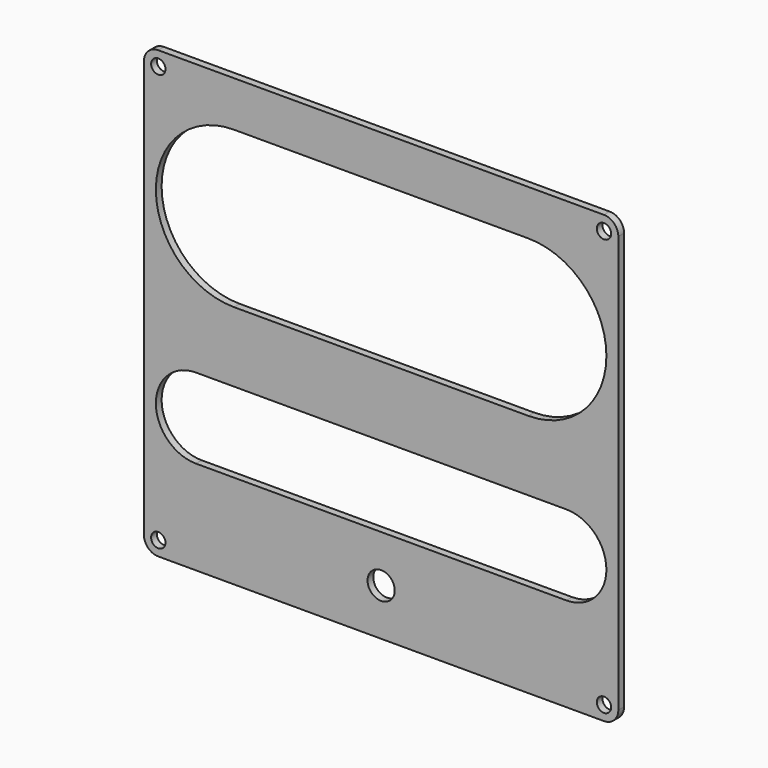
from build123d import *

# Parameters (mm, degrees)
F1_DEPTH = 3.175
F2_R     = 3.175
F3_DEPTH = 25.4
F5_DEPTH = 25
F6_DEPTH = 25
F7_DEPTH = 25
F8_R     = 6
F9_DEPTH = 25


with BuildPart() as f1:
    # F0 (on Front) → F1 (new body)
    with BuildSketch(Plane.XZ):
        with BuildLine():
            Line((98.425, 98.425), (-98.425, 98.425))
            ThreePointArc((-98.425, 98.425), (-102.915128, 96.565128), (-104.775, 92.075))
            Line((-104.775, 92.075), (-104.775, -92.075))
            ThreePointArc((-104.775, -92.075), (-102.915128, -96.565128), (-98.425, -98.425))
            Line((-98.425, -98.425), (98.425, -98.425))
            ThreePointArc((98.425, -98.425), (102.915128, -96.565128), (104.775, -92.075))
            Line((104.775, -92.075), (104.775, 92.075))
            ThreePointArc((104.775, 92.075), (102.915128, 96.565128), (98.425, 98.425))
        make_face()
    extrude(amount=F1_DEPTH)

    # F2 (on face) → F3 (cut)
    with BuildSketch(Plane.XZ.offset(3.175)):
        with Locations((-98.425, 92.075)):
            Circle(F2_R)
        with Locations((98.425, 92.075)):
            Circle(F2_R)
        with Locations((98.425, -92.075)):
            Circle(F2_R)
        with Locations((-98.425, -92.075)):
            Circle(F2_R)
    extrude(amount=-F3_DEPTH, mode=Mode.SUBTRACT)

    # F4 (on face) → F5 (cut)
    with BuildSketch(Plane.XZ.offset(3.175)):
        with BuildLine():
            ThreePointArc((-65, 78.4), (-99.5, 43.9), (-65, 9.4))
            Line((-65, 9.4), (65, 9.4))
            ThreePointArc((65, 9.4), (99.5, 43.9), (65, 78.4))
            Line((65, 78.4), (-65, 78.4))
        make_face()
        with BuildLine():
            ThreePointArc((-81.8, -21.5), (-99.5, -39.2), (-81.8, -56.9))
            Line((-81.8, -56.9), (81.8, -56.9))
            ThreePointArc((81.8, -56.9), (99.5, -39.2), (81.8, -21.5))
            Line((81.8, -21.5), (-81.8, -21.5))
        make_face()
    extrude(amount=-F5_DEPTH, mode=Mode.SUBTRACT)

    # F4 (on face) → F6 (cut)
    with BuildSketch(Plane.XZ.offset(3.175)):
        with BuildLine():
            ThreePointArc((-65, 78.4), (-99.5, 43.9), (-65, 9.4))
            Line((-65, 9.4), (65, 9.4))
            ThreePointArc((65, 9.4), (99.5, 43.9), (65, 78.4))
            Line((65, 78.4), (-65, 78.4))
        make_face()
        with BuildLine():
            ThreePointArc((-81.8, -21.5), (-99.5, -39.2), (-81.8, -56.9))
            Line((-81.8, -56.9), (81.8, -56.9))
            ThreePointArc((81.8, -56.9), (99.5, -39.2), (81.8, -21.5))
            Line((81.8, -21.5), (-81.8, -21.5))
        make_face()
    extrude(amount=-F6_DEPTH, mode=Mode.SUBTRACT)

    # F4 (on face) → F7 (cut)
    with BuildSketch(Plane.XZ.offset(3.175)):
        with BuildLine():
            ThreePointArc((-65, 78.4), (-99.5, 43.9), (-65, 9.4))
            Line((-65, 9.4), (65, 9.4))
            ThreePointArc((65, 9.4), (99.5, 43.9), (65, 78.4))
            Line((65, 78.4), (-65, 78.4))
        make_face()
        with BuildLine():
            ThreePointArc((-81.8, -21.5), (-99.5, -39.2), (-81.8, -56.9))
            Line((-81.8, -56.9), (81.8, -56.9))
            ThreePointArc((81.8, -56.9), (99.5, -39.2), (81.8, -21.5))
            Line((81.8, -21.5), (-81.8, -21.5))
        make_face()
    extrude(amount=-F7_DEPTH, mode=Mode.SUBTRACT)

    # F8 (on face) → F9 (cut)
    with BuildSketch(Plane.XZ.offset(3.175)):
        with Locations((0, -77.7)):
            Circle(F8_R)
    extrude(amount=-F9_DEPTH, mode=Mode.SUBTRACT)


solid = f1.part
